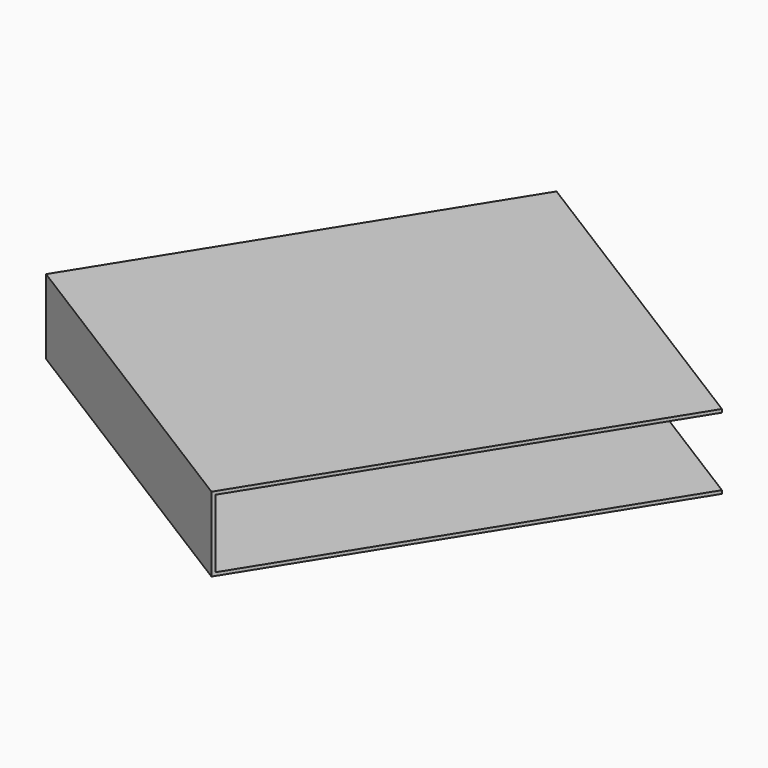
from build123d import *

# Parameters (mm, degrees)
BOX178_W               = 6
BOX178_H               = 6.45
BOX178_DEPTH           = 1.05
BOX177_W               = 6
BOX177_H               = 6.5
BOX177_DEPTH           = 1.15
CUT087_PLACEMENT_ANGLE = 148


with BuildPart() as small_cu_gnd_electrode074:
    # Box178 → Box178 (new body)
    with BuildSketch(Plane.XY.offset(0.05)):
        with Locations((3, 3.225)):
            Rectangle(BOX178_W, BOX178_H)
    extrude(amount=BOX178_DEPTH)


with BuildPart() as small_cu_electrode002_short_axis_gnd008:
    # Box177 → Box177 (new body)
    with BuildSketch(Plane.XY):
        with Locations((3, 3.25)):
            Rectangle(BOX177_W, BOX177_H)
    extrude(amount=BOX177_DEPTH)

    # Cut087: cut Small Cu GND Electrode074
    add(small_cu_gnd_electrode074.part, mode=Mode.SUBTRACT)


with BuildPart() as small_cu_electrode002_short_axis_gnd008_1:
    # Cut087 placement: moved
    add(small_cu_electrode002_short_axis_gnd008.part.moved(Location((-4.588858, 19.640047, 2.74))).rotate(Axis((-4.588858, 19.640047, 2.74), (0, 0, 1)), CUT087_PLACEMENT_ANGLE))


solid = small_cu_electrode002_short_axis_gnd008_1.part
